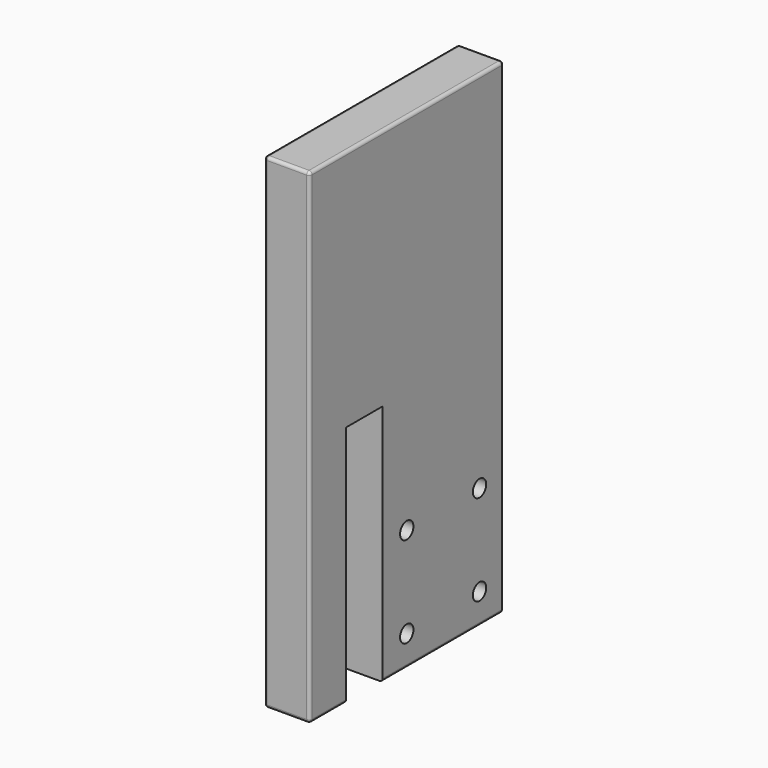
from build123d import *

# Parameters (mm, degrees)
F1_W     = 30
F1_H     = 160
F2_DEPTH = 160
F3_R     = 2
F4_W     = 30
F4_H     = 158
F4_H_2   = 2
F5_DEPTH = 30.001
F4_R     = 5.5
F6_DEPTH = 15


with BuildPart() as f2:
    # F1 (on face) → F2 (new body, symmetric)
    with BuildSketch(Plane.XY):
        Rectangle(F1_W, F1_H)
    extrude(amount=F2_DEPTH, both=True)

    # F3
    f3_edges = [f2.edges().sort_by_distance(p)[0] for p in [
        (15, 0, -160),
        (15, 80, 0),
        (15, 0, 160),
        (15, -80, 0),
        (-15, 80, 0),
        (-15, 0, -160),
        (-15, -80, 0),
        (-15, 0, 160),
        (0, 80, -160),
        (0, -80, -160),
        (0, 80, 160),
        (0, -80, 160),
    ]]
    fillet(f3_edges, radius=F3_R)

    # F4 (on face) → F5 (cut, through all)
    with BuildSketch(Plane.YZ.offset(15)):
        with Locations((-35, -79)):
            Rectangle(F4_W, F4_H)
        with Locations((-35, -159)):
            Rectangle(F4_W, F4_H_2)
    extrude(amount=-F5_DEPTH, mode=Mode.SUBTRACT)

    # F4 (on face) → F6 (cut)
    with BuildSketch(Plane.YZ.offset(15)):
        with Locations((60, -140)):
            Circle(F4_R)
        with Locations((0, -140)):
            Circle(F4_R)
        with Locations((0, -80)):
            Circle(F4_R)
        with Locations((60, -80)):
            Circle(F4_R)
    extrude(amount=-F6_DEPTH, mode=Mode.SUBTRACT)


solid = f2.part
